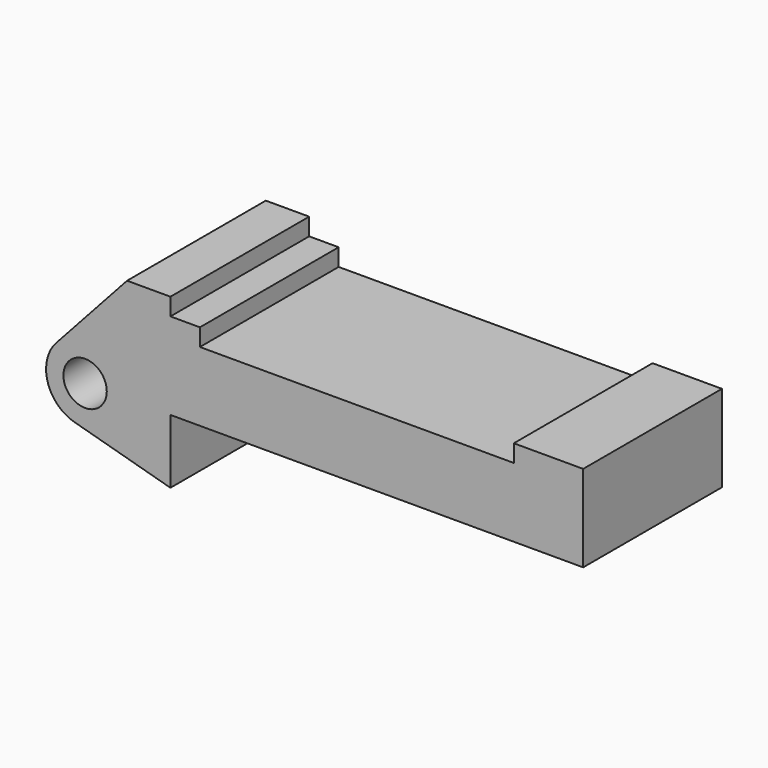
from build123d import *

# Parameters (mm, degrees)
F0_W     = 5.842
F0_H     = 12.7
F0_R     = 3.175
F1_DEPTH = 25.4


with BuildPart() as f1:
    # F0 (on Front) → F1 (new body)
    with BuildSketch(Plane.XZ):
        Polygon((5.842, 12.7), (5.842, 0), (66.294, 0), (66.294, 12.7), (56.134, 12.7), (56.134, 10.16), (10.16, 10.16), (10.16, 12.7), align=None)
        with Locations((2.921, 6.35)):
            Rectangle(F0_W, F0_H)
        with BuildLine():
            Line((-0.9398, 0), (0, 0))
            Line((0, 0), (0, 12.7))
            Line((0, 12.7), (5.842, 12.7))
            Line((5.842, 12.7), (5.842, 15.24))
            Line((5.842, 15.24), (-0.508, 15.24))
            Line((-0.508, 15.24), (-10.88063, 3.847543))
            ThreePointArc((-10.88063, 3.847543), (-4.591961, 5.329721), (-0.9398, 0))
        make_face()
        with BuildLine():
            Line((5.842, 0), (0, 0))
            Line((0, 0), (-0.9398, 0))
            ThreePointArc((-0.9398, 0), (-3.195791, -4.549339), (-8.182663, -5.506983))
            Line((-8.182663, -5.506983), (5.842, -9.398))
            Line((5.842, -9.398), (5.842, 0))
        make_face()
        with BuildLine():
            ThreePointArc((-8.182663, -5.506983), (-3.195791, -4.549339), (-0.9398, 0))
            ThreePointArc((-0.9398, 0), (-4.591961, 5.329721), (-10.88063, 3.847543))
            ThreePointArc((-10.88063, 3.847543), (-12.145978, -1.583727), (-8.182663, -5.506983))
        make_face()
        with Locations((-6.6548, 0)):
            Circle(F0_R, mode=Mode.SUBTRACT)
    extrude(amount=F1_DEPTH)


solid = f1.part
